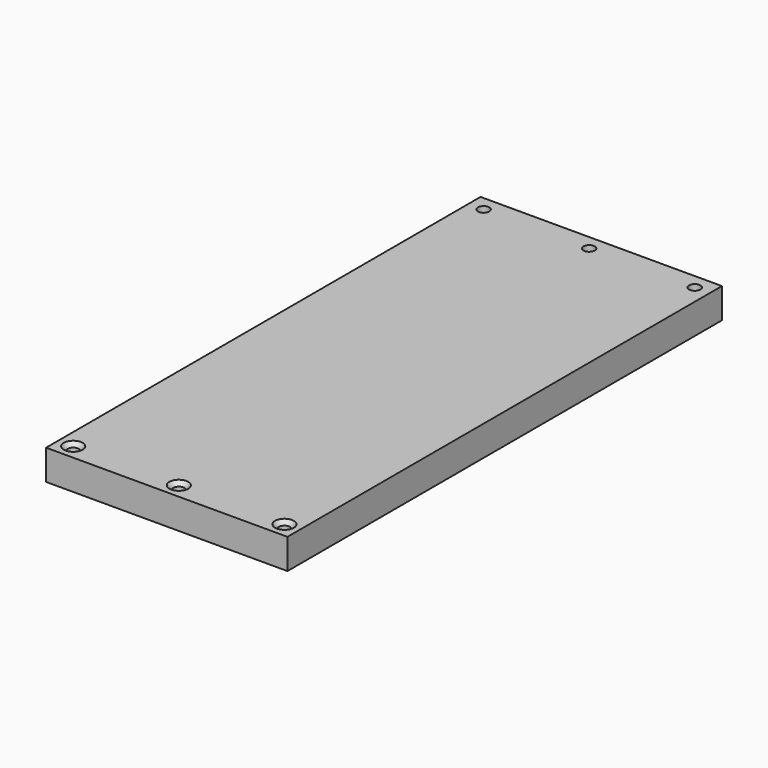
from build123d import *

# Parameters (mm, degrees)
F0_W           = 101.6
F0_H           = 228.6
F1_DEPTH       = 12.7
F3_D           = 4.7625
F3_CSINK_D     = 7.9375
F3_CSINK_ANGLE = 85
F5_D           = 4.7625
F5_CSINK_D     = 7.9375
F5_CSINK_ANGLE = 85


with BuildPart() as f1:
    # F0 (on Top) → F1 (new body)
    with BuildSketch(Plane.XY):
        Rectangle(F0_W, F0_H)
    extrude(amount=F1_DEPTH)

    # F3 (through all)
    with Locations(Plane.XY.offset(12.7)):
        with Locations((-44.45, -107.95), (0, -107.95), (44.45, -107.95)):
            CounterSinkHole(F3_D / 2, F3_CSINK_D / 2, counter_sink_angle=F3_CSINK_ANGLE)

    # F5 (through all)
    with Locations(Plane(origin=(0, 0, 0), x_dir=(1, 0, 0), z_dir=(0, 0, -1))):
        with Locations((44.45, -107.95), (0, -107.95), (-44.45, -107.95)):
            CounterSinkHole(F5_D / 2, F5_CSINK_D / 2, counter_sink_angle=F5_CSINK_ANGLE)


solid = f1.part
